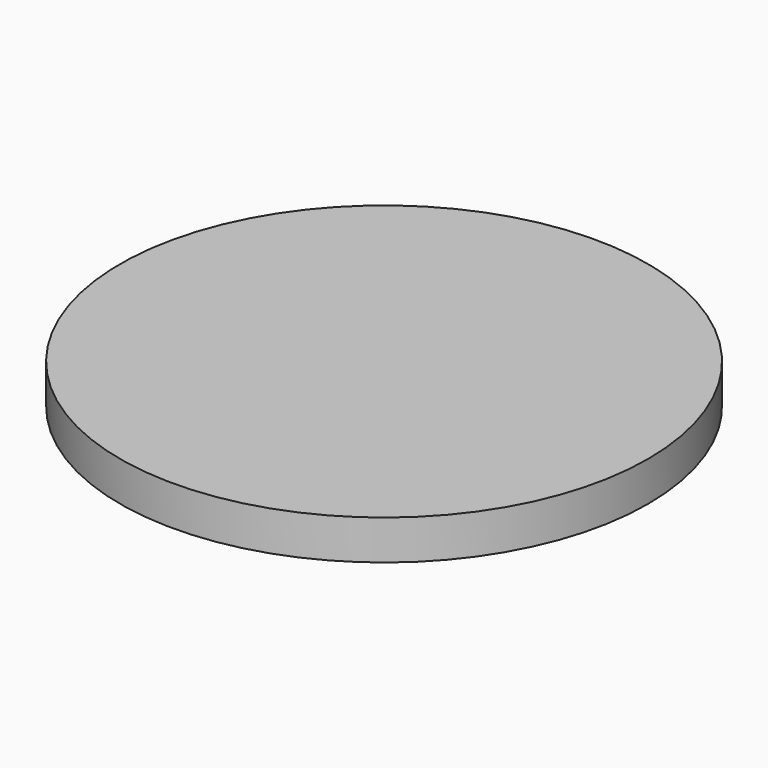
from build123d import *

# Parameters (mm, degrees)
CYLINDER_R     = 20
CYLINDER_DEPTH = 3


with BuildPart() as part:
    # Cylinder → Cylinder (new body)
    with BuildSketch(Plane.XY):
        Circle(CYLINDER_R)
    extrude(amount=CYLINDER_DEPTH)


solid = part.part
